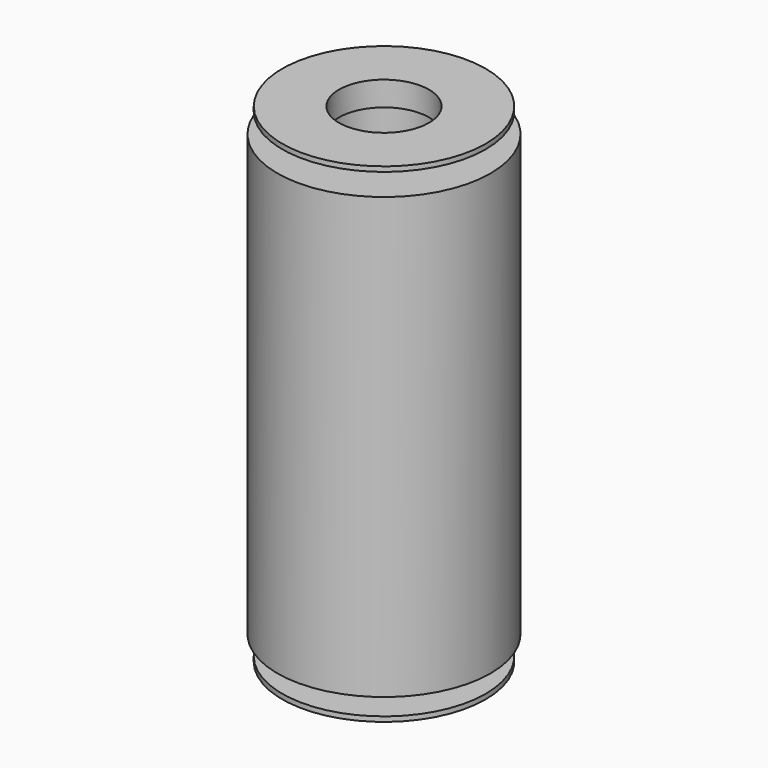
from build123d import *

# Parameters (mm, degrees)
F0_R      = 6.9215
F1_DEPTH  = 14.2875
F2_R      = 3.01625
F3_DEPTH  = 28.576
F4_R      = 3.01625
F5_DEPTH  = 1.5875
F6_T      = -0.3175
F7_R      = 6.604
F8_DEPTH  = 0.3175
F9_R      = 2.921
F10_DEPTH = 25.4


with BuildPart() as f1:
    # F0 (on Top) → F1 (new body, symmetric)
    with BuildSketch(Plane.XY):
        Circle(F0_R)
    extrude(amount=F1_DEPTH, both=True)

    # F2 (on face) → F3 (cut, through all)
    with BuildSketch(Plane.XY.offset(14.2875)):
        Circle(F2_R)
    extrude(amount=-F3_DEPTH, mode=Mode.SUBTRACT)


with BuildPart() as f5:
    # F4 (on face) → F5 (new body)
    with BuildSketch(Plane.XY.offset(14.2875)):
        Circle(F4_R)
    extrude(amount=F5_DEPTH)

    # F6
    f6_openings = [f5.faces().sort_by_distance(p)[0] for p in [
        (0, 0, 15.875),
    ]]
    offset(amount=F6_T, openings=f6_openings)

    # F7 (on face) → F8 (join)
    with BuildSketch(Plane.XY.offset(15.875)):
        Circle(F7_R)
        Circle(F7_R)
    extrude(amount=-F8_DEPTH)

    # F9 (on face) → F10 (cut)
    with BuildSketch(Plane.XY.offset(15.875)):
        Circle(F9_R)
    extrude(amount=-F10_DEPTH, mode=Mode.SUBTRACT)


with BuildPart() as f11_1:
    # F11: instance of F5
    add(f5.part.mirror(Plane.XY))


solid = Compound([f1.part, f5.part, f11_1.part])
